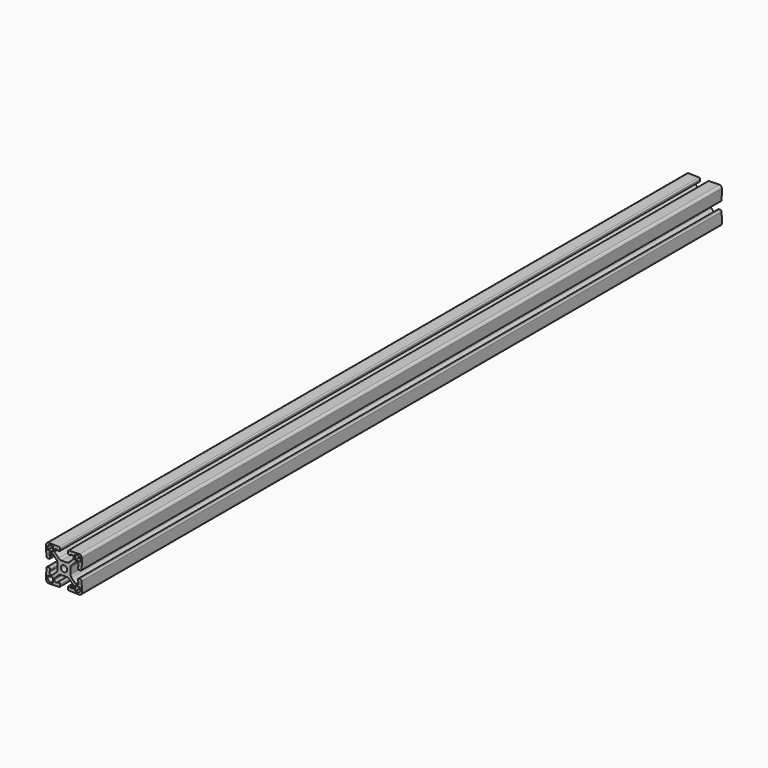
from build123d import *

# Parameters (mm, degrees)
SKETCH_R           = 3.265
PAD_DEPTH          = 847.725
POCKET_DEPTH       = 2546.597267
POLARPATTERN_COUNT = 4


with BuildPart() as part:
    # Sketch → Pad (new body)
    with BuildSketch(Plane.XZ):
        with BuildLine():
            ThreePointArc((-15.87, 19.05), (-18.1186, 18.1186), (-19.05, 15.87))
            Line((-19.05, -15.87), (-19.05, 15.87))
            ThreePointArc((-19.05, -15.87), (-18.1186, -18.1186), (-15.87, -19.05))
            Line((15.87, -19.05), (-15.87, -19.05))
            ThreePointArc((15.87, -19.05), (18.1186, -18.1186), (19.05, -15.87))
            Line((19.05, 15.87), (19.05, -15.87))
            ThreePointArc((19.05, 15.87), (18.1186, 18.1186), (15.87, 19.05))
            Line((-15.87, 19.05), (15.87, 19.05))
        make_face()
        Circle(SKETCH_R, mode=Mode.SUBTRACT)
        with BuildLine():
            Line((-12.145, -11.895), (-17.025, -11.895))
            ThreePointArc((-17.025, -11.895), (-17.201777, -11.968223), (-17.275, -12.145))
            Line((-17.275, -12.145), (-17.275, -14.485))
            ThreePointArc((-17.275, -14.485), (-16.457828, -16.457828), (-14.485, -17.275))
            Line((-14.485, -17.275), (-12.145, -17.275))
            ThreePointArc((-12.145, -17.275), (-11.968223, -17.201777), (-11.895, -17.025))
            Line((-11.895, -17.025), (-11.895, -12.145))
            ThreePointArc((-11.895, -12.145), (-11.968223, -11.968223), (-12.145, -11.895))
        make_face(mode=Mode.SUBTRACT)
        with BuildLine():
            Line((-12.145, 11.895), (-17.025, 11.895))
            ThreePointArc((-17.275, 12.145), (-17.201777, 11.968223), (-17.025, 11.895))
            Line((-17.275, 12.145), (-17.275, 14.485))
            ThreePointArc((-14.485, 17.275), (-16.457828, 16.457828), (-17.275, 14.485))
            Line((-14.485, 17.275), (-12.145, 17.275))
            ThreePointArc((-11.895, 17.025), (-11.968223, 17.201777), (-12.145, 17.275))
            Line((-11.895, 17.025), (-11.895, 12.145))
            ThreePointArc((-12.145, 11.895), (-11.968223, 11.968223), (-11.895, 12.145))
        make_face(mode=Mode.SUBTRACT)
        with BuildLine():
            Line((12.145, 11.895), (17.025, 11.895))
            ThreePointArc((17.025, 11.895), (17.201777, 11.968223), (17.275, 12.145))
            Line((17.275, 12.145), (17.275, 14.485))
            ThreePointArc((17.275, 14.485), (16.457828, 16.457828), (14.485, 17.275))
            Line((14.485, 17.275), (12.145, 17.275))
            ThreePointArc((12.145, 17.275), (11.968223, 17.201777), (11.895, 17.025))
            Line((11.895, 17.025), (11.895, 12.145))
            ThreePointArc((11.895, 12.145), (11.968223, 11.968223), (12.145, 11.895))
        make_face(mode=Mode.SUBTRACT)
        with BuildLine():
            Line((12.145, -11.895), (17.025, -11.895))
            ThreePointArc((17.275, -12.145), (17.201777, -11.968223), (17.025, -11.895))
            Line((17.275, -12.145), (17.275, -14.485))
            ThreePointArc((14.485, -17.275), (16.457828, -16.457828), (17.275, -14.485))
            Line((14.485, -17.275), (12.145, -17.275))
            ThreePointArc((11.895, -17.025), (11.968223, -17.201777), (12.145, -17.275))
            Line((11.895, -17.025), (11.895, -12.145))
            ThreePointArc((12.145, -11.895), (11.968223, -11.968223), (11.895, -12.145))
        make_face(mode=Mode.SUBTRACT)
    extrude(amount=PAD_DEPTH)

    # Sketch001 → Pocket (cut, through all)
    with BuildSketch(Plane.XZ):
        with BuildLine():
            Line((-17.444433, 4.065), (-15.924054, 4.065))
            ThreePointArc((-15.924054, 4.065), (-15.026029, 4.436974), (-14.654054, 5.335))
            Line((-14.654054, 5.335), (-14.654054, 6.61))
            ThreePointArc((-14.654054, 6.61), (-14.727278, 6.786777), (-14.904054, 6.86))
            Line((-14.904054, 6.86), (-15.254129, 6.86))
            ThreePointArc((-15.504054, 7.103892), (-15.428733, 6.931077), (-15.254129, 6.86))
            Line((-15.504054, 7.103892), (-15.550002, 8.983971))
            ThreePointArc((-14.280382, 10.285), (-15.189311, 9.901987), (-15.550002, 8.983971))
            Line((-14.280382, 10.285), (-12.545229, 10.285))
            ThreePointArc((-12.368452, 10.211777), (-12.449558, 10.26597), (-12.545229, 10.285))
            Line((-12.368452, 10.211777), (-7.911573, 5.754897))
            ThreePointArc((-6.74, 2.92647), (-7.044482, 4.457204), (-7.911573, 5.754897))
            Line((-6.74, -2.92647), (-6.74, 2.92647))
            ThreePointArc((-7.911573, -5.754897), (-7.044482, -4.457204), (-6.74, -2.92647))
            Line((-12.368452, -10.211777), (-7.911573, -5.754897))
            ThreePointArc((-12.545229, -10.285), (-12.449558, -10.26597), (-12.368452, -10.211777))
            Line((-14.280382, -10.285), (-12.545229, -10.285))
            ThreePointArc((-15.550002, -8.983971), (-15.189311, -9.901987), (-14.280382, -10.285))
            Line((-15.504054, -7.103892), (-15.550002, -8.983971))
            ThreePointArc((-15.254129, -6.86), (-15.428733, -6.931077), (-15.504054, -7.103892))
            Line((-14.904054, -6.86), (-15.254129, -6.86))
            ThreePointArc((-14.904054, -6.86), (-14.727278, -6.786777), (-14.654054, -6.61))
            Line((-14.654054, -5.335), (-14.654054, -6.61))
            ThreePointArc((-14.654054, -5.335), (-15.026029, -4.436974), (-15.924054, -4.065))
            Line((-17.444433, -4.065), (-15.924054, -4.065))
            ThreePointArc((-17.444433, -4.065), (-18.331421, -4.42607), (-18.714054, -5.303971))
            Line((-18.714054, -5.303971), (-19.05, -19.05))
            Line((-24.05, -19.05), (-19.05, -19.05))
            Line((-24.05, 19.05), (-24.05, -19.05))
            Line((-19.05, 19.05), (-24.05, 19.05))
            Line((-18.714054, 5.303971), (-19.05, 19.05))
            ThreePointArc((-18.714054, 5.303971), (-18.331421, 4.42607), (-17.444433, 4.065))
        make_face()
    pocket = extrude(amount=POCKET_DEPTH, mode=Mode.SUBTRACT)

    # PolarPattern: Pocket ×4 about axis
    polarpattern_axis = Axis((0, 0, 0), (0, -1, 0))
    for i in range(1, POLARPATTERN_COUNT):
        add(pocket.rotate(polarpattern_axis, i * 360 / POLARPATTERN_COUNT), mode=Mode.SUBTRACT)


solid = part.part
